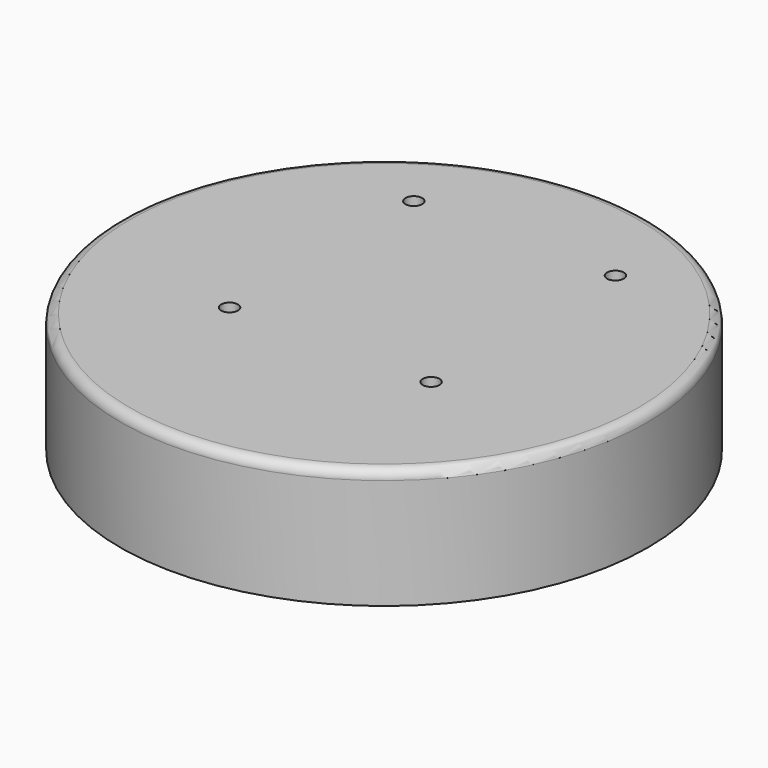
from build123d import *

# Parameters (mm, degrees)
F0_R     = 55
F1_DEPTH = 25
F2_R     = 2
F3_R     = 1.75
F4_DEPTH = 25


with BuildPart() as f1:
    # F0 (on Top) → F1 (new body)
    with BuildSketch(Plane.XY):
        Circle(F0_R)
    extrude(amount=F1_DEPTH)

    # F2
    f2_edges = [f1.edges().sort_by_distance(p)[0] for p in [
        (-55, 0, 25),
    ]]
    fillet(f2_edges, radius=F2_R)

    # F3 (on face) → F4 (cut, through all)
    with BuildSketch(Plane.XY.offset(25)):
        with Locations((-21, 34)):
            Circle(F3_R)
        with Locations((21, 34)):
            Circle(F3_R)
        with Locations((21, -14)):
            Circle(F3_R)
        with Locations((-21, -14)):
            Circle(F3_R)
    extrude(amount=-F4_DEPTH, mode=Mode.SUBTRACT)


solid = f1.part
